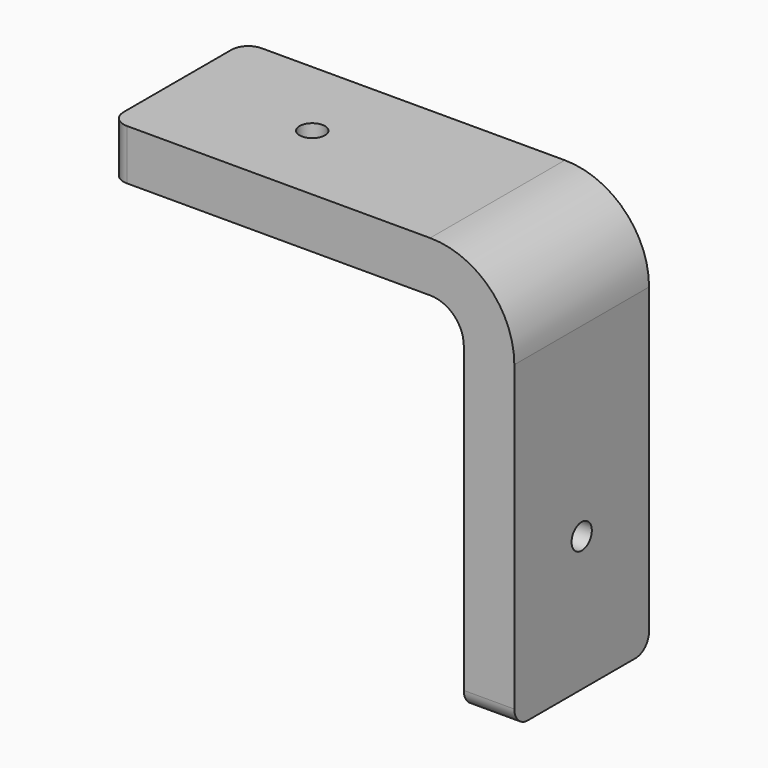
from build123d import *

# Parameters (mm, degrees)
F1_DEPTH = 31.75
F2_R     = 2.3876
F3_DEPTH = 25.4
F4_R     = 2.3876
F5_DEPTH = 25.4
F6_R     = 15.875
F7_R     = 6.35
F8_R     = 3.175


with BuildPart() as f1:
    # F0 (on Front) → F1 (new body)
    with BuildSketch(Plane.XZ):
        Polygon((66.675, 66.675), (66.675, 0), (76.2, 0), (76.2, 76.2), (0, 76.2), (0, 66.675), align=None)
    extrude(amount=F1_DEPTH)

    # F2 (on face) → F3 (cut)
    with BuildSketch(Plane.YZ.offset(76.2)):
        with Locations((-15.875, 25.4)):
            Circle(F2_R)
    extrude(amount=-F3_DEPTH, mode=Mode.SUBTRACT)

    # F4 (on face) → F5 (cut)
    with BuildSketch(Plane.XY.offset(76.2)):
        with Locations((25.4, -15.875)):
            Circle(F4_R)
    extrude(amount=-F5_DEPTH, mode=Mode.SUBTRACT)

    # F6
    f6_edges = [f1.edges().sort_by_distance(p)[0] for p in [
        (76.2, -15.875, 76.2),
    ]]
    fillet(f6_edges, radius=F6_R)

    # F7
    f7_edges = [f1.edges().sort_by_distance(p)[0] for p in [
        (66.675, -15.875, 66.675),
    ]]
    fillet(f7_edges, radius=F7_R)

    # F8
    f8_edges = [f1.edges().sort_by_distance(p)[0] for p in [
        (0, 0, 71.4375),
        (0, -31.75, 71.4375),
        (71.4375, 0, 0),
        (71.4375, -31.75, 0),
    ]]
    fillet(f8_edges, radius=F8_R)


solid = f1.part
